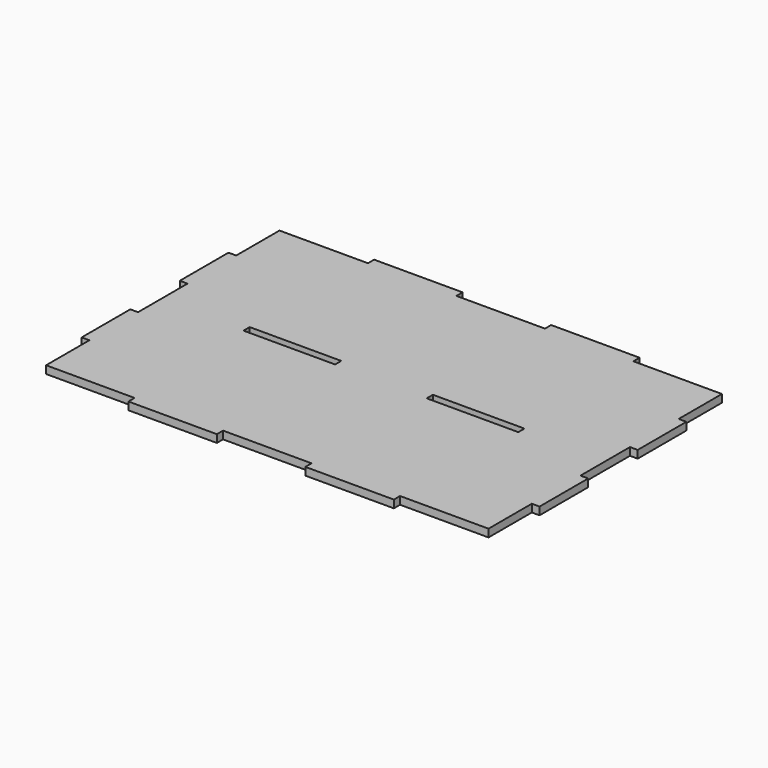
from build123d import *

# Parameters (mm, degrees)
F0_W     = 237
F0_H     = 159
F1_DEPTH = 4
F2_W     = 4
F2_H     = 32
F2_H_2   = 16
F3_DEPTH = 4
F4_W     = 45.8
F4_H     = 4
F5_DEPTH = 4
F6_W     = 47.4
F6_H     = 2
F7_DEPTH = 4


with BuildPart() as f1:
    # F0 (on Top) → F1 (new body)
    with BuildSketch(Plane.XY):
        with Locations((118.5, 79.5)):
            Rectangle(F0_W, F0_H)
    extrude(amount=F1_DEPTH)

    # F2 (on face) → F3 (cut, through all)
    with BuildSketch(Plane.XY.offset(4)):
        with Locations((2, 16)):
            Rectangle(F2_W, F2_H)
        with Locations((2, 71.5)):
            Rectangle(F2_W, F2_H_2)
        with Locations((2, 87.5)):
            Rectangle(F2_W, F2_H_2)
        with Locations((235, 71.5)):
            Rectangle(F2_W, F2_H_2)
        with Locations((235, 87.5)):
            Rectangle(F2_W, F2_H_2)
        with Locations((235, 16)):
            Rectangle(F2_W, F2_H)
        with Locations((235, 143)):
            Rectangle(F2_W, F2_H)
        with Locations((2, 143)):
            Rectangle(F2_W, F2_H)
    extrude(amount=-F3_DEPTH, mode=Mode.SUBTRACT)

    # F4 (on face) → F5 (cut, through all)
    with BuildSketch(Plane.XY.offset(4)):
        with Locations((26.9, 2)):
            Rectangle(F4_W, F4_H)
        with Locations((118.5, 2)):
            Rectangle(F4_W, F4_H)
        with Locations((210.1, 2)):
            Rectangle(F4_W, F4_H)
        with Locations((210.1, 157)):
            Rectangle(F4_W, F4_H)
        with Locations((26.9, 157)):
            Rectangle(F4_W, F4_H)
        with Locations((118.5, 157)):
            Rectangle(F4_W, F4_H)
    extrude(amount=-F5_DEPTH, mode=Mode.SUBTRACT)

    # F6 (on face) → F7 (cut, through all)
    with BuildSketch(Plane.XY.offset(4)):
        with Locations((71.1, 80.5)):
            Rectangle(F6_W, F6_H)
        with Locations((71.1, 78.5)):
            Rectangle(F6_W, F6_H)
        with Locations((165.9, 80.5)):
            Rectangle(F6_W, F6_H)
        with Locations((165.9, 78.5)):
            Rectangle(F6_W, F6_H)
    extrude(amount=-F7_DEPTH, mode=Mode.SUBTRACT)


solid = f1.part
